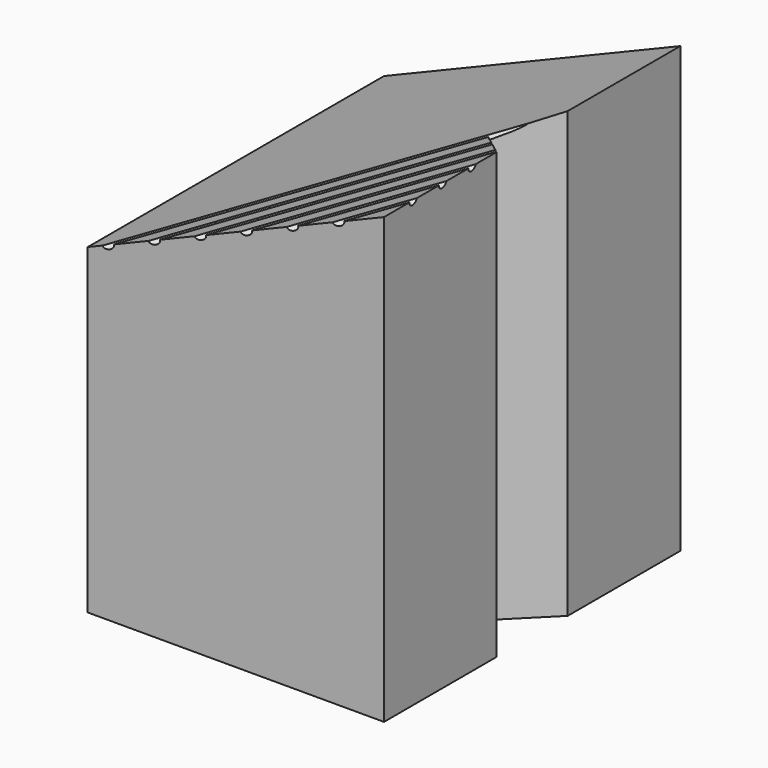
from build123d import *

# Parameters (mm, degrees)
F1_DEPTH = 25
F3_DEPTH = 30.001
F6_R     = 0.25
F7_DEPTH = 38.9529986152


with BuildPart() as f1:
    # F0 (on Front) → F1 (new body)
    with BuildSketch(Plane.XZ):
        Polygon((-20, 0), (0, 0), (0, 30), (-20, 21.7157287525), align=None)
    extrude(amount=F1_DEPTH)

    # F2 (on face) → F3 (cut, through all)
    with BuildSketch(Plane(origin=(0, 0, 0), x_dir=(1, 0, 0), z_dir=(0, 0, -1))):
        Polygon((0, 9.5), (0, 15.5), (-3, 12.5), align=None)
    extrude(amount=-F3_DEPTH, mode=Mode.SUBTRACT)

    # F6 (on line) → F7 (cut, through all)
    with BuildSketch(Plane(origin=(6.8564591979, 5.4885609135, 2.8400383896), x_dir=(-0.5493524956, 0.8040106793, -0.2275492542), z_dir=(0.7428090106, 0.5946148564, 0.3076815664))):
        with Locations((-14.9457916694, 27.7163859753)):
            Circle(F6_R)
        with Locations((-16.9457916694, 27.7163859753)):
            Circle(F6_R)
        with Locations((-18.9457916694, 27.7163859753)):
            Circle(F6_R)
        with Locations((-20.9457916694, 27.7163859753)):
            Circle(F6_R)
        with Locations((-22.9457916694, 27.7163859753)):
            Circle(F6_R)
        with Locations((-24.9457916694, 27.7163859753)):
            Circle(F6_R)
    extrude(amount=-F7_DEPTH, mode=Mode.SUBTRACT)


solid = f1.part
